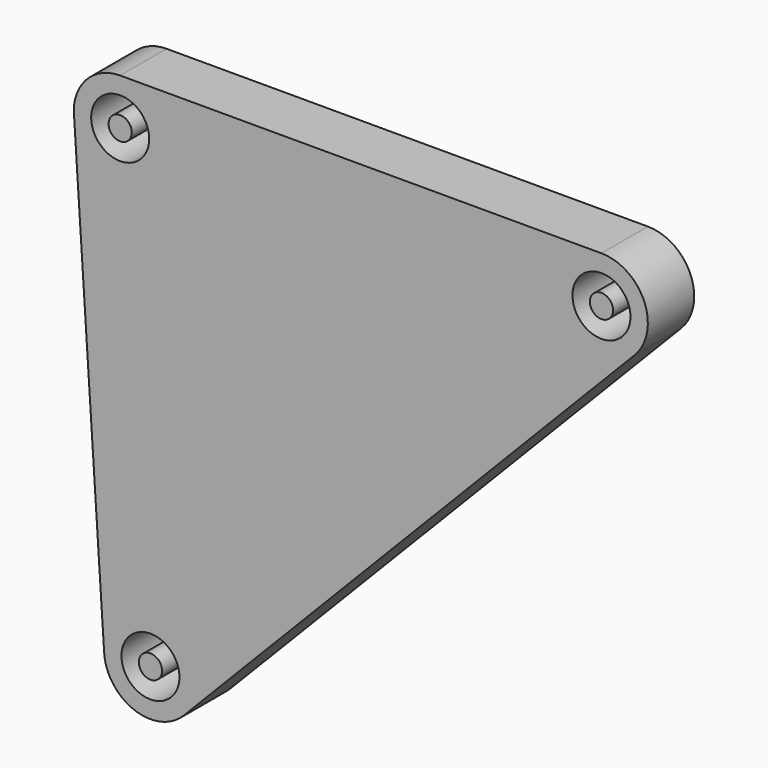
from build123d import *

# Parameters (mm, degrees)
F0_R     = 2.5
F0_R_2   = 1
F1_DEPTH = 5


with BuildPart() as f1:
    # F0 (on Front) → F1 (new body)
    with BuildSketch(Plane.XZ):
        with BuildLine():
            Line((41.5, 4), (0, 4))
            ThreePointArc((0, 4), (-2.828427, 2.828427), (-4, 0))
            Line((-4, 0), (-3.96633, -0.517903))
            Line((-3.96633, -0.517903), (-1.381694, -40.274477))
            ThreePointArc((-1.381694, -40.274477), (1.226603, -43.768184), (5.478337, -42.802801))
            Line((5.478337, -42.802801), (44.368457, -2.787822))
            ThreePointArc((44.368457, -2.787822), (45.184514, 1.557034), (41.5, 4))
        make_face()
        with Locations((2.60988, -40.014979)):
            Circle(F0_R, mode=Mode.SUBTRACT)
        Circle(F0_R, mode=Mode.SUBTRACT)
        with Locations((41.5, 0)):
            Circle(F0_R, mode=Mode.SUBTRACT)
        with BuildLine():
            Line((-3.96633, -0.517903), (-4, 0))
            ThreePointArc((-4, 0), (-3.991574, -0.259498), (-3.96633, -0.517903))
        make_face()
        Circle(F0_R_2)
        with Locations((41.5, 0)):
            Circle(F0_R_2)
        with Locations((2.60988, -40.014979)):
            Circle(F0_R_2)
    extrude(amount=F1_DEPTH)


solid = f1.part
